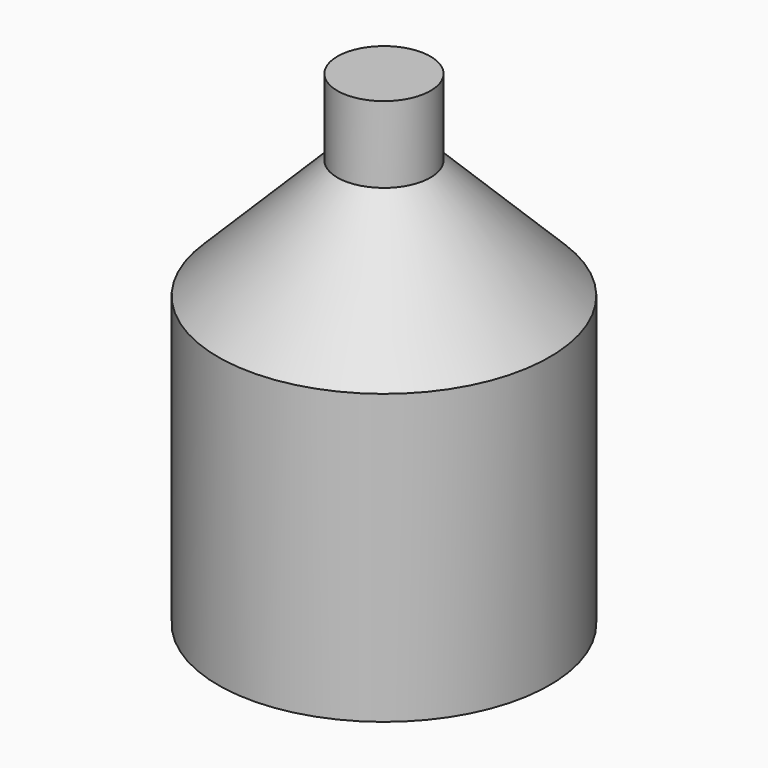
from build123d import *


with BuildPart() as part:
    # Sketch → Revolution (revolve)
    with BuildSketch(Plane.XZ):
        Polygon((0, 0), (-1.78, 0), (-1.78, 3.1), (-0.5, 4.38), (-0.5, 5.2), (0, 5.2), align=None)
    revolve(axis=Axis((0, 0, 0), (0, 0, 1)))


solid = part.part
